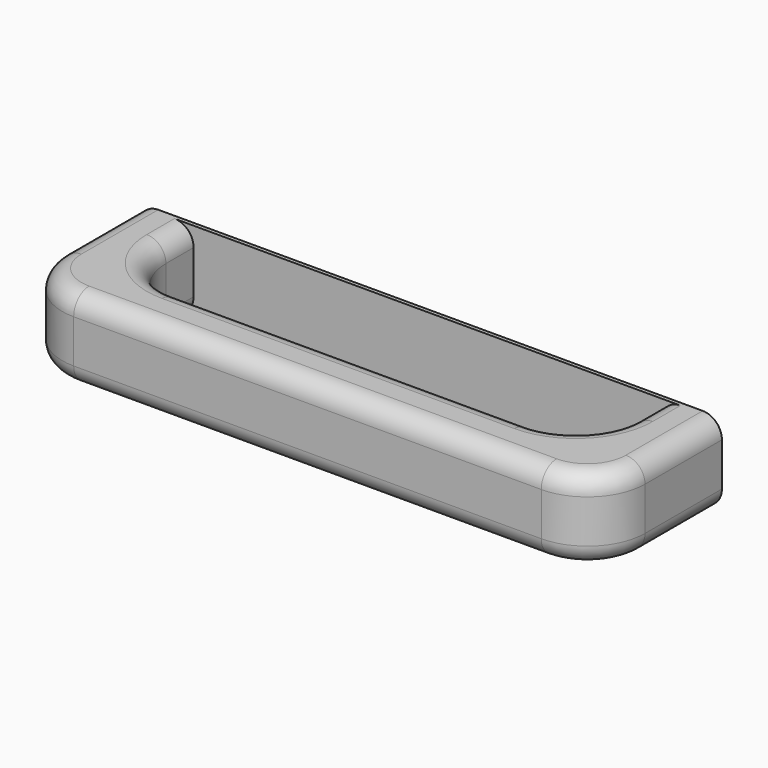
from build123d import *

# Parameters (mm, degrees)
SKETCH020_W     = 151.632409
SKETCH020_H     = 21.2714
PAD012_DEPTH    = 40
SKETCH021_W     = 121.632409
SKETCH021_H     = 24
POCKET008_DEPTH = 21.2724
FILLET012_R     = 15
FILLET013_R     = 5


with BuildPart() as part:
    # Sketch020 (on Face1 of CopyPocket007) → Pad012 (new body)
    with BuildSketch(Plane.XZ.offset(825)):
        with Locations((591.056032, -79.507206)):
            Rectangle(SKETCH020_W, SKETCH020_H)
    extrude(amount=PAD012_DEPTH)

    # Sketch021 (on Face4 of Pad012) → Pocket008 (cut, through all)
    with BuildSketch(Plane(origin=(0, 0, -68.871506), x_dir=(-1, 0, 0), z_dir=(0, 0, 1))):
        with Locations((-591.056032, 838)):
            Rectangle(SKETCH021_W, SKETCH021_H)
    extrude(amount=-POCKET008_DEPTH, mode=Mode.SUBTRACT)

    # Fillet012
    fillet012_edges = [part.edges().sort_by_distance(p)[0] for p in [
        (515.239828, -865, -79.507206),
        (666.872237, -865, -79.507206),
        (651.872237, -850, -79.507206),
        (530.239828, -850, -79.507206),
    ]]
    fillet(fillet012_edges, radius=FILLET012_R)

    # Fillet013
    fillet013_edges = [part.edges().sort_by_distance(p)[0] for p in [
        (591.056032, -850, -68.871506),
        (591.056032, -850, -90.142906),
        (591.056032, -865, -68.871506),
        (591.056032, -865, -90.142906),
    ]]
    fillet(fillet013_edges, radius=FILLET013_R)


solid = part.part
